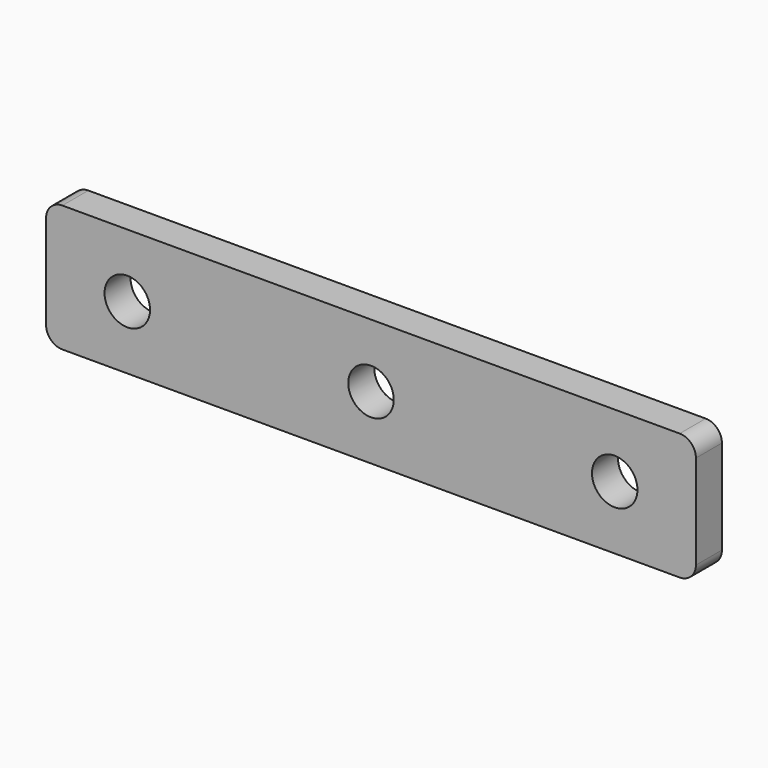
from build123d import *

# Parameters (mm, degrees)
F1_DEPTH = 2
F2_R     = 1


with BuildPart() as f1:
    # F0 (on Front) → F1 (new body)
    with BuildSketch(Plane.XZ):
        with BuildLine():
            ThreePointArc((21.4, 3.9), (20.989949, 4.889949), (20, 5.3))
            ThreePointArc((20, 5.3), (19.010051, 2.910051), (21.4, 3.9))
        make_face()
        Polygon((0, 3.9), (0, 0), (40, 0), (40, 3.9), (40, 7.8), (20, 7.8), (0, 7.8), align=None)
        with BuildLine():
            ThreePointArc((6.4, 3.9), (5, 2.5), (3.6, 3.9))
            ThreePointArc((3.6, 3.9), (5, 5.3), (6.4, 3.9))
        make_face(mode=Mode.SUBTRACT)
        with BuildLine():
            ThreePointArc((21.4, 3.9), (19.010051, 2.910051), (20, 5.3))
            ThreePointArc((20, 5.3), (20.989949, 4.889949), (21.4, 3.9))
        make_face(mode=Mode.SUBTRACT)
        with BuildLine():
            ThreePointArc((33.6, 3.9), (35, 5.3), (36.4, 3.9))
            ThreePointArc((36.4, 3.9), (35, 2.5), (33.6, 3.9))
        make_face(mode=Mode.SUBTRACT)
    extrude(amount=F1_DEPTH)

    # F2
    f2_edges = [f1.edges().sort_by_distance(p)[0] for p in [
        (0, -1, 7.8),
        (0, -1, 0),
        (40, -1, 7.8),
        (40, -1, 0),
    ]]
    fillet(f2_edges, radius=F2_R)


solid = f1.part
